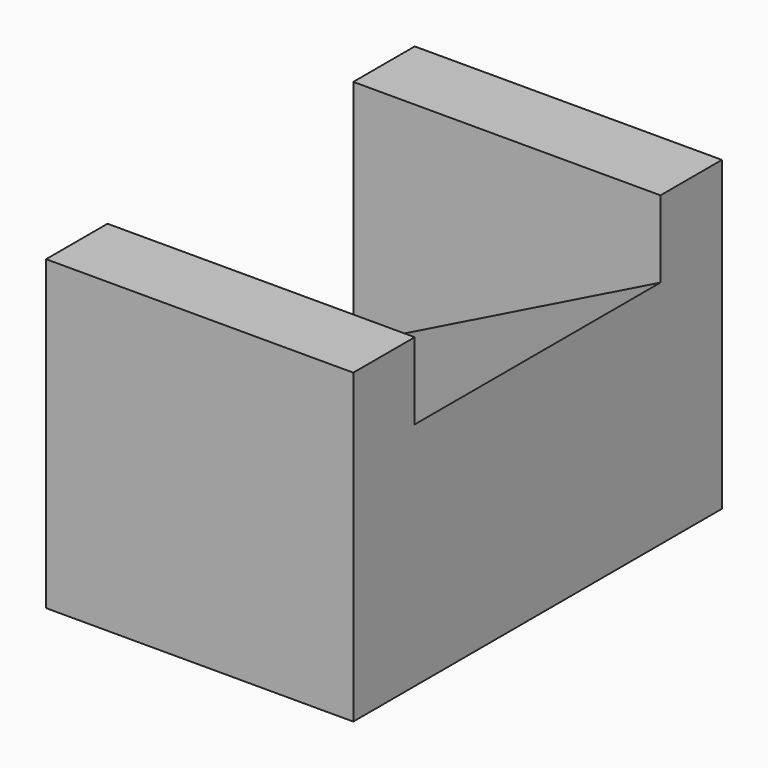
from build123d import *

# Parameters (mm, degrees)
F0_W     = 20
F0_H     = 20
F1_DEPTH = 5
F3_DEPTH = 20
F4_W     = 20
F4_H     = 20
F5_DEPTH = 5


with BuildPart() as f1:
    # F0 (on Front) → F1 (new body)
    with BuildSketch(Plane.XZ):
        with Locations((10, 10)):
            Rectangle(F0_W, F0_H)
    extrude(amount=F1_DEPTH)

    # F2 (on face) → F3 (join)
    with BuildSketch(Plane.XZ.offset(5)):
        Polygon((0, 5), (0, 0), (20, 0), (20, 15), align=None)
    extrude(amount=F3_DEPTH)

    # F4 (on face) → F5 (join)
    with BuildSketch(Plane.XZ.offset(25)):
        with Locations((10, 10)):
            Rectangle(F4_W, F4_H)
    extrude(amount=F5_DEPTH)


solid = f1.part
